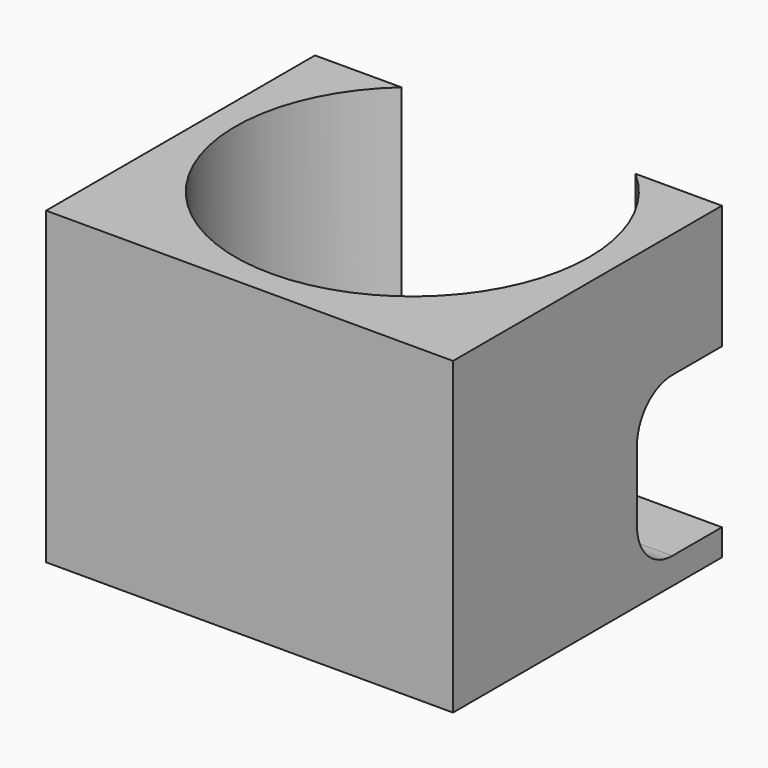
from build123d import *

# Parameters (mm, degrees)
F1_DEPTH = 35
F2_DEPTH = 3
F3_W     = 9.7712434447
F3_H     = 18
F4_DEPTH = 12
F5_R     = 5


with BuildPart() as f1:
    # F0 (on Top) → F1 (new body)
    with BuildSketch(Plane.XY):
        with BuildLine():
            Line((-13.2287565553, 15), (-23, 15))
            Line((-23, 15), (-23, -23))
            Line((-23, -23), (23, -23))
            Line((23, -23), (23, 15))
            Line((23, 15), (13.2287565553, 15))
            ThreePointArc((13.2287565553, 15), (18.2287565553, 8.2287565553), (20, 0))
            ThreePointArc((20, 0), (-8.2287565553, -18.2287565553), (-13.2287565553, 15))
        make_face()
    extrude(amount=F1_DEPTH)

    # F0 (on Top) → F2 (join)
    with BuildSketch(Plane.XY):
        with BuildLine():
            Line((13.2287565553, 15), (-13.2287565553, 15))
            ThreePointArc((-13.2287565553, 15), (-8.2287565553, -18.2287565553), (20, 0))
            ThreePointArc((20, 0), (18.2287565553, 8.2287565553), (13.2287565553, 15))
        make_face()
    extrude(amount=F2_DEPTH)

    # F3 (on face) → F4 (cut)
    with BuildSketch(Plane(origin=(0, 15, 0), x_dir=(-1, 0, 0), z_dir=(0, 1, 0))):
        with Locations((-18.1143782777, 12)):
            Rectangle(F3_W, F3_H)
    extrude(amount=-F4_DEPTH, mode=Mode.SUBTRACT)

    # F5
    f5_edges = [f1.edges().sort_by_distance(p)[0] for p in [
        (21.38686, 3, 21),
        (21.38686, 3, 3),
    ]]
    fillet(f5_edges, radius=F5_R)


solid = f1.part
